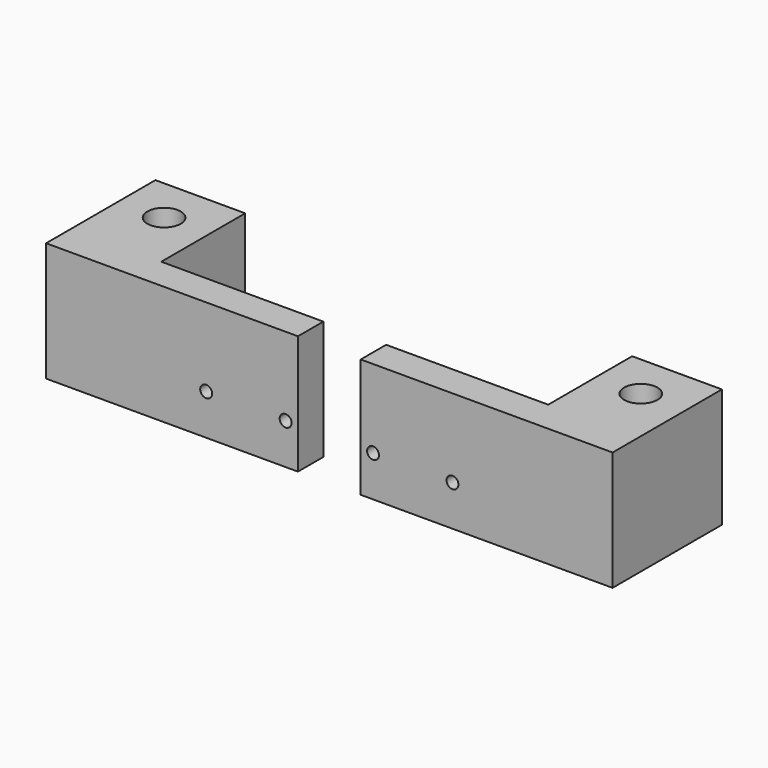
from build123d import *

# Parameters (mm, degrees)
F0_W      = 63.4
F0_H      = 30
F1_DEPTH  = 4
F3_D      = 3
F5_W      = 34.4
F5_H      = 30
F6_DEPTH  = 11.3
F10_D     = 8.4
F11_R     = 4.2
F12_DEPTH = 22


with BuildPart() as f1:
    # F0 (on Front) → F1 (new body, symmetric)
    with BuildSketch(Plane.XZ):
        Rectangle(F0_W, F0_H)
    extrude(amount=F1_DEPTH, both=True)

    # F3 (through all)
    with Locations(Plane.XZ.offset(4)):
        with Locations((-28.6, -4.74), (-8.6, -4.74)):
            Hole(F3_D / 2)

    # F5 (on plane+point) → F6 (join, symmetric)
    with BuildSketch(Plane.YZ.offset(20.4)):
        with Locations((13.2, 0)):
            Rectangle(F5_W, F5_H)
    extrude(amount=F6_DEPTH, both=True)

    # F10 (through all)
    with Locations(Plane(origin=(0, 0, -15), x_dir=(1, 0, 0), z_dir=(0, 0, -1))):
        with Locations((20.4, -19)):
            Hole(F10_D / 2)

    # F11 (on face) → F12 (cut)
    with BuildSketch(Plane(origin=(0, 0, -15), x_dir=(1, 0, 0), z_dir=(0, 0, -1))):
        Polygon((12.6637970472, -18.9329387911), (16.4738218131, -25.6662176815), (24.2100247659, -25.7332788904), (28.1362029528, -19.0670612089), (24.3261781869, -12.3337823185), (16.5899752341, -12.2667211096), align=None)
        with Locations((20.4, -19)):
            Circle(F11_R, mode=Mode.SUBTRACT)
    extrude(amount=-F12_DEPTH, mode=Mode.SUBTRACT)


with BuildPart() as f14_1:
    # F14: instance of F1
    add(f1.part.mirror(Plane.YZ.offset(-39.6)))


solid = Compound([f1.part, f14_1.part])
